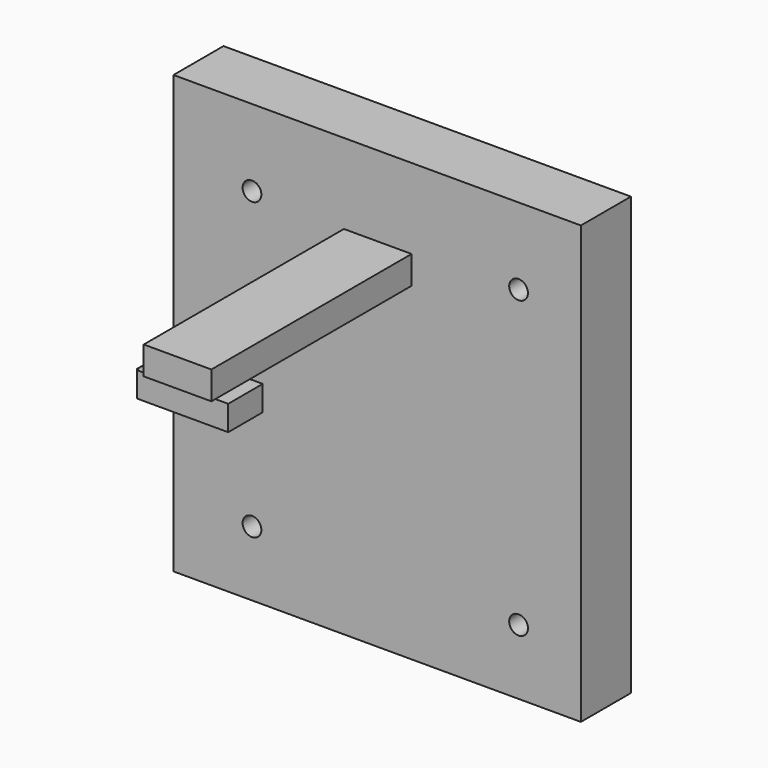
from build123d import *

# Parameters (mm, degrees)
F0_W     = 32.5657911599
F0_H     = 34.9342138506
F1_DEPTH = 5
F2_W     = 5.4085478187
F2_H     = 2.2419001907
F3_DEPTH = 25
F4_W     = 0.9602960199
F4_H     = 3.2896772027
F5_DEPTH = 2
F6_W     = 0.8392520249
F6_H     = 3.4502763301
F6_W_2   = 1.025756821
F6_W_3   = 5.4085478187
F7_DEPTH = 2
F8_R     = 0.75
F9_DEPTH = 25


with BuildPart() as f1:
    # F0 (on Front) → F1 (new body)
    with BuildSketch(Plane.XZ):
        with Locations((-25.1644756645, 11.8421062361)):
            Rectangle(F0_W, F0_H)
    extrude(amount=F1_DEPTH)

    # F2 (on face) → F3 (join)
    with BuildSketch(Plane(origin=(0, 0, 0), x_dir=(-1, 0, 0), z_dir=(0, 1, 0))):
        with Locations((25.1194499433, 21.7826096341)):
            Rectangle(F2_W, F2_H)
    extrude(amount=-F3_DEPTH)

    # F8 (on face) → F9 (cut)
    with BuildSketch(Plane.XZ.offset(5)):
        with Locations((-35.1711931261, 23.1757219534)):
            Circle(F8_R)
        with Locations((-13.8618085725, 23.1757219534)):
            Circle(F8_R)
        with Locations((-13.8618085725, -0.4200767102)):
            Circle(F8_R)
        with Locations((-35.1711931261, -0.4200767102)):
            Circle(F8_R)
    extrude(amount=-F9_DEPTH, mode=Mode.SUBTRACT)


with BuildPart() as f5:
    # F4 (on face) → F5 (new body)
    with BuildSketch(Plane(origin=(0, 0, 20.6616595387), x_dir=(1, 0, 0), z_dir=(0, 0, -1))):
        with Locations((-28.3038718626, 22.8204913437)):
            Rectangle(F4_W, F4_H)
    extrude(amount=F5_DEPTH)


with BuildPart() as f7:
    # F6 (on face) → F7 (new body)
    with BuildSketch(Plane(origin=(0, 0, 20.6616595387), x_dir=(1, 0, 0), z_dir=(0, 0, -1))):
        with Locations((-28.2433498651, 22.8796871379)):
            Rectangle(F6_W, F6_H)
        with Locations((-21.9022976235, 22.8796871379)):
            Rectangle(F6_W_2, F6_H)
        with Locations((-25.1194499433, 22.8796871379)):
            Rectangle(F6_W_3, F6_H)
    extrude(amount=F7_DEPTH)


solid = Compound([f1.part, f5.part, f7.part])
